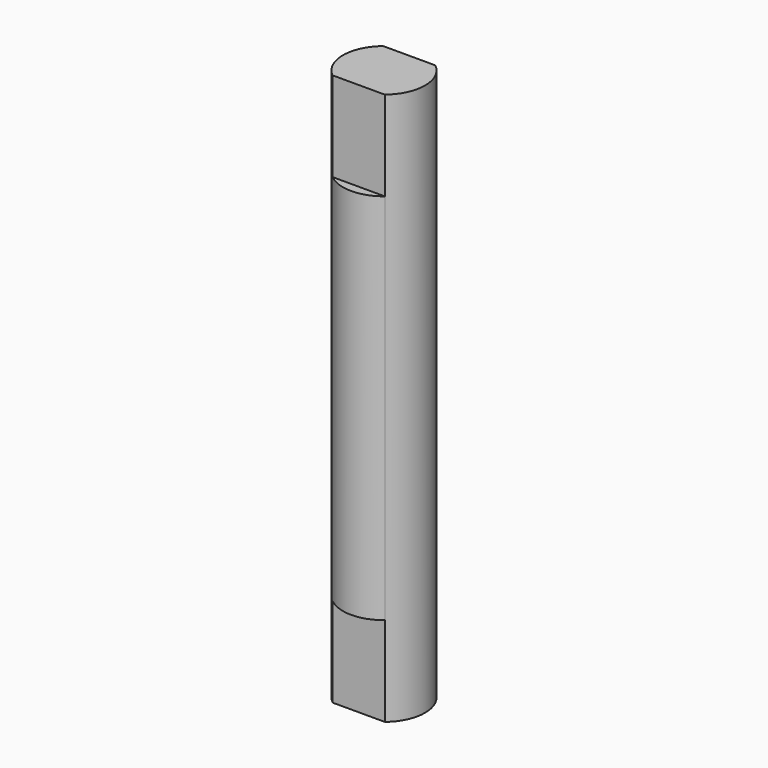
from build123d import *

# Parameters (mm, degrees)
F1_DEPTH = 12.5
F0_W     = 3.5
F0_H     = 4.2426406871
F2_DEPTH = 18.5


with BuildPart() as f1:
    # F0 (on Top) → F1 (new body, symmetric)
    with BuildSketch(Plane.XY):
        with BuildLine():
            Line((-1.75, 2.1213203436), (1.75, 2.1213203436))
            ThreePointArc((1.75, 2.1213203436), (0, 2.75), (-1.75, 2.1213203436))
        make_face()
    extrude(amount=F1_DEPTH, both=True)



with BuildPart() as f1b:
    # F0 (on Top) → F1, piece 2 (new body, symmetric)
    with BuildSketch(Plane.XY):
        with BuildLine():
            ThreePointArc((-1.75, -2.1213203436), (0, -2.75), (1.75, -2.1213203436))
            Line((1.75, -2.1213203436), (-1.75, -2.1213203436))
        make_face()
    extrude(amount=F1_DEPTH, both=True)


with BuildPart() as f1_1:
    add(f1.part)

    add(f1b.part)  # F2 merges F1b
    # F0 (on Top) → F2 (join, symmetric)
    with BuildSketch(Plane.XY):
        Rectangle(F0_W, F0_H)
        with BuildLine():
            ThreePointArc((1.75, -2.1213203436), (2.4874685928, -1.17260394), (2.75, 0))
            ThreePointArc((2.75, 0), (2.4874685928, 1.17260394), (1.75, 2.1213203436))
            Line((1.75, 2.1213203436), (1.75, -2.1213203436))
        make_face()
        with BuildLine():
            Line((-1.75, -2.1213203436), (-1.75, 2.1213203436))
            ThreePointArc((-1.75, 2.1213203436), (-2.75, 0), (-1.75, -2.1213203436))
        make_face()
    extrude(amount=F2_DEPTH, both=True)


solid = f1_1.part
